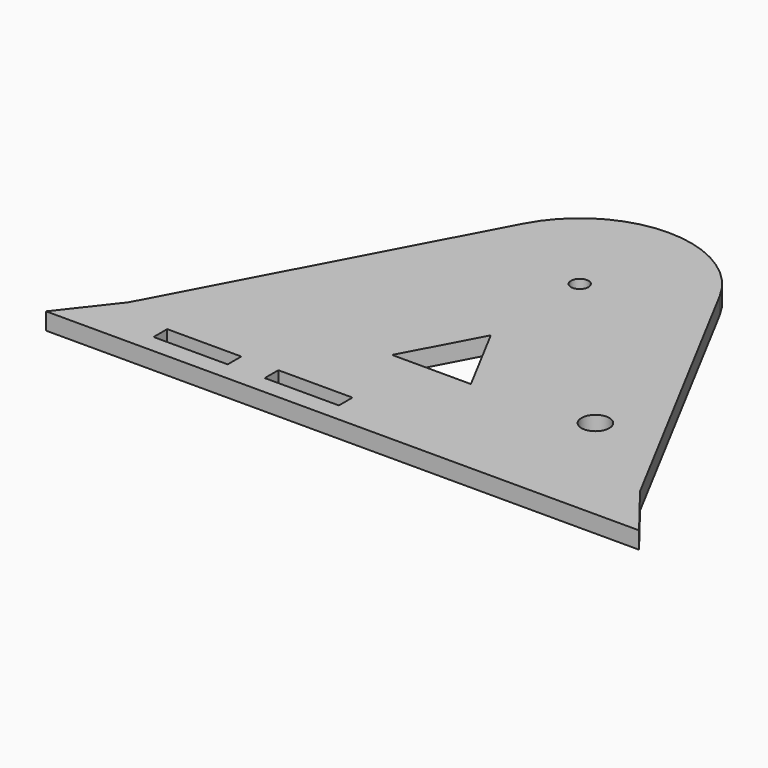
from build123d import *

# Parameters (mm, degrees)
F1_DEPTH = 5.842
F2_R     = 2.9845
F2_R_2   = 4.7625
F3_DEPTH = 25.4
F4_W     = 25.4
F4_H     = 5.842
F5_DEPTH = 25.4


with BuildPart() as f1:
    # F0 (on Top) → F1 (new body)
    with BuildSketch(Plane.XY):
        with BuildLine():
            ThreePointArc((0, -38.1), (26.940768, -26.940768), (38.1, 0))
            ThreePointArc((38.1, 0), (36.969278, 9.21317), (33.644225, 17.879489))
            ThreePointArc((33.644225, 17.879489), (0, 38.1), (-33.644225, 17.879489))
            ThreePointArc((-33.644225, 17.879489), (-32.655922, -19.626532), (0, -38.1))
        make_face()
        with BuildLine():
            ThreePointArc((33.644225, 17.879489), (36.969278, 9.21317), (38.1, 0))
            ThreePointArc((38.1, 0), (26.940768, -26.940768), (0, -38.1))
            ThreePointArc((0, -38.1), (-32.655922, -19.626532), (-33.644225, 17.879489))
            Line((-33.644225, 17.879489), (-87.637326, -83.720511))
            Line((-87.637326, -83.720511), (-101.6, -101.6))
            Line((-101.6, -101.6), (-53.993101, -101.6))
            Line((-53.993101, -101.6), (53.993101, -101.6))
            Line((53.993101, -101.6), (101.6, -101.6))
            Line((101.6, -101.6), (87.637326, -83.720511))
            Line((87.637326, -83.720511), (33.644225, 17.879489))
        make_face()
        Polygon((-13.498275, -63.5), (0, -38.1), (13.498275, -63.5), (22.416117, -80.280898), (-22.416117, -80.280898), align=None, mode=Mode.SUBTRACT)
        Polygon((13.498275, -63.5), (-13.498275, -63.5), (-22.416117, -80.280898), (22.416117, -80.280898), align=None)
    extrude(amount=F1_DEPTH)

    # F2 (on face) → F3 (cut)
    with BuildSketch(Plane.XY.offset(5.842)):
        Circle(F2_R)
        with Locations((53.631348, -60.325)):
            Circle(F2_R_2)
    extrude(amount=-F3_DEPTH, mode=Mode.SUBTRACT)

    # F4 (on face) → F5 (cut)
    with BuildSketch(Plane.XY.offset(5.842)):
        with Locations((-57.15, -92.329)):
            Rectangle(F4_W, F4_H)
        with Locations((-19.05, -92.329)):
            Rectangle(F4_W, F4_H)
    extrude(amount=-F5_DEPTH, mode=Mode.SUBTRACT)


solid = f1.part
